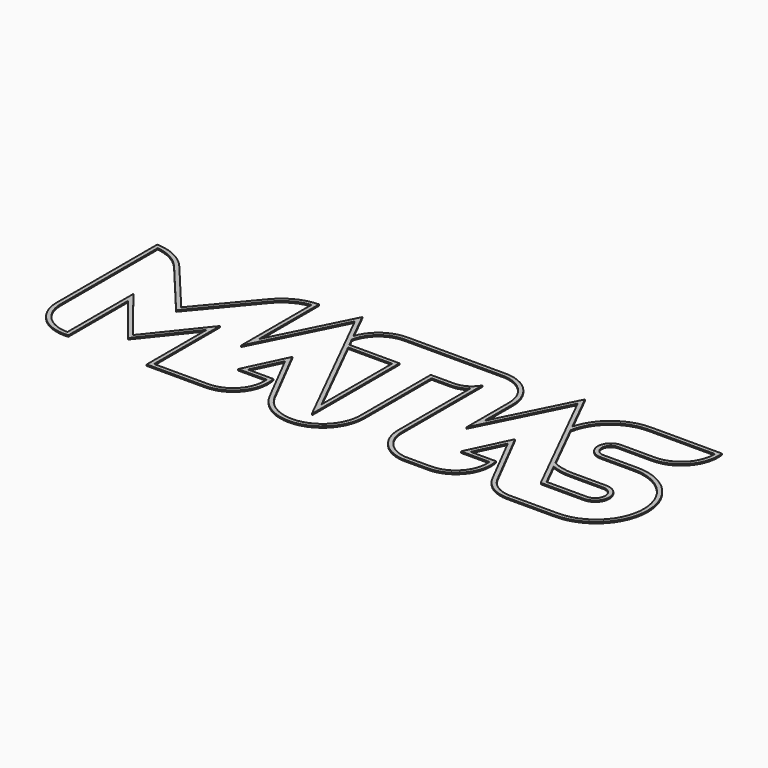
from build123d import *

# Parameters (mm, degrees)
F1_DEPTH = 0.4


with BuildPart() as f1:
    # F0 (on Top) → F1 (new body)
    with BuildSketch(Plane.XY):
        with BuildLine():
            Line((134.117601, 52.35192), (104.790399, 52.35192))
            ThreePointArc((104.790399, 52.35192), (98.599906, 50.364955), (94.722175, 45.146388))
            Line((94.722175, 45.146388), (90.439587, 53.731151))
            Line((90.439587, 53.731151), (78.773495, 30.448411))
            Line((78.773495, 30.448411), (78.773495, 52.493423))
            ThreePointArc((78.773495, 52.493423), (72.923348, 51.04402), (68.176621, 47.33005))
            Line((68.176621, 47.33005), (55.041848, 31.619177))
            Line((55.041848, 31.619177), (41.907075, 47.33005))
            ThreePointArc((41.907075, 47.33005), (37.160347, 51.04402), (31.3102, 52.493423))
            Line((31.3102, 52.493423), (31.3102, 15.584978))
            ThreePointArc((31.3102, 15.584978), (34.975357, 7.386031), (43.52908, 4.649262))
            Line((43.52908, 4.649262), (43.52908, 26.505338))
            Line((43.52908, 26.505338), (55.041848, 12.091459))
            Line((55.041848, 12.091459), (66.554615, 26.505338))
            Line((66.554615, 26.505338), (66.554615, 4.581898))
            Line((66.554615, 4.581898), (83.704581, 4.581914))
            ThreePointArc((83.704581, 4.581914), (91.70244, 8.42165), (93.707784, 17.063867))
            Line((93.707784, 17.063867), (86.238848, 17.063867))
            Line((86.238848, 17.063867), (90.309106, 25.609449))
            Line((90.309106, 25.609449), (98.430799, 9.756892))
            ThreePointArc((98.430799, 9.756892), (112.588106, 3.440158), (121.785738, 15.919502))
            Line((121.785738, 15.919502), (121.785738, 39.959846))
            Line((121.785738, 39.959846), (127.466301, 39.959846))
            ThreePointArc((127.466301, 39.959846), (129.789281, 40.322243), (131.891491, 41.374992))
            Line((131.891491, 41.374992), (131.891491, 15.021686))
            ThreePointArc((131.891491, 15.021686), (134.662869, 7.916194), (141.513281, 4.563521))
            Line((141.513281, 4.563521), (149.037555, 4.563528))
            ThreePointArc((149.037555, 4.563528), (157.035414, 8.403264), (159.040758, 17.045482))
            Line((159.040758, 17.045482), (151.571822, 17.045482))
            Line((151.571822, 17.045482), (155.64208, 25.591063))
            Line((155.64208, 25.591063), (163.763773, 9.738506))
            ThreePointArc((163.763773, 9.738506), (167.159763, 6.0203), (171.974498, 4.545128))
            Line((171.974498, 4.545128), (178.360625, 4.545128))
            Line((178.360625, 4.545128), (186.306138, 4.545128))
            ThreePointArc((186.306138, 4.545128), (201.425191, 19.664181), (186.306138, 34.783235))
            Line((186.306138, 34.783235), (176.385451, 34.783235))
            ThreePointArc((176.385451, 34.783235), (173.751636, 37.41705), (176.385451, 40.050866))
            Line((176.385451, 40.050866), (186.306138, 40.050866))
            ThreePointArc((186.306138, 40.050866), (194.459994, 43.760102), (197.021679, 52.3439))
            Line((197.021679, 52.3439), (176.385451, 52.3439))
            ThreePointArc((176.385451, 52.3439), (167.316213, 49.307242), (161.90404, 41.421765))
            Line((161.90404, 41.421765), (155.772561, 53.712765))
            Line((155.772561, 53.712765), (144.402741, 31.021313))
            Line((144.402741, 31.021313), (144.402741, 41.55154))
            ThreePointArc((144.402741, 41.55154), (141.420105, 49.008622), (134.117601, 52.35192))
        make_face()
        Polygon((110.209341, 39.95985), (110.209341, 14.101218), (97.309523, 39.95985), align=None, mode=Mode.SUBTRACT)
        with BuildLine():
            Line((32.510204, 15.584978), (32.510204, 51.195543))
            ThreePointArc((32.510204, 51.195543), (37.18689, 49.67996), (40.986429, 46.560362))
            Line((40.986429, 46.560362), (55.041848, 29.748278))
            Line((55.041848, 29.748278), (69.097267, 46.560362))
            ThreePointArc((69.097267, 46.560362), (72.896805, 49.67996), (77.573491, 51.195543))
            Line((77.573491, 51.195543), (77.573491, 25.374748))
            Line((77.573491, 25.374748), (90.437222, 51.04769))
            Line((90.437222, 51.04769), (95.369863, 41.15985))
            Line((95.369863, 41.15985), (111.409341, 9.007538))
            Line((111.409341, 9.007538), (111.409341, 41.15985))
            Line((111.409341, 41.15985), (96.710893, 41.15985))
            Line((96.710893, 41.15985), (95.529365, 43.528313))
            ThreePointArc((95.529365, 43.528313), (98.792773, 49.000858), (104.790399, 51.151916))
            Line((104.790399, 51.151916), (134.087416, 51.151916))
            ThreePointArc((134.087416, 51.151916), (140.560905, 48.17076), (143.202737, 41.55154))
            Line((143.202737, 41.55154), (143.202737, 25.947649))
            Line((143.202737, 25.947649), (155.770196, 51.029305))
            Line((155.770196, 51.029305), (162.525616, 37.48757))
            Line((162.525616, 37.48757), (168.213113, 26.086565))
            Line((168.213113, 26.086565), (173.694601, 15.098518))
            Line((173.694601, 15.098518), (186.306138, 15.098518))
            ThreePointArc((186.306138, 15.098518), (190.467475, 19.259855), (186.306138, 23.421193))
            Line((186.306138, 23.421193), (176.385451, 23.421193))
            ThreePointArc((176.385451, 23.421193), (173.177011, 23.797627), (170.142836, 24.906486))
            Line((170.142836, 24.906486), (162.743499, 39.739006))
            ThreePointArc((162.743499, 39.739006), (167.494805, 47.917086), (176.385451, 51.143896))
            Line((176.385451, 51.143896), (195.918921, 51.143896))
            ThreePointArc((195.918921, 51.143896), (193.203195, 44.16594), (186.306138, 41.25087))
            Line((186.306138, 41.25087), (176.385451, 41.25087))
            ThreePointArc((176.385451, 41.25087), (172.551632, 37.41705), (176.385451, 33.583231))
            Line((176.385451, 33.583231), (186.306138, 33.583231))
            ThreePointArc((186.306138, 33.583231), (200.225188, 19.664181), (186.306138, 5.745132))
            Line((186.306138, 5.745132), (178.360625, 5.745132))
            Line((178.360625, 5.745132), (171.993494, 5.745132))
            ThreePointArc((171.993494, 5.745132), (167.793729, 7.039214), (164.831771, 10.28567))
            Line((164.831771, 10.28567), (155.602871, 28.29936))
            Line((155.602871, 28.29936), (149.671091, 15.845478))
            Line((149.671091, 15.845478), (158.027767, 15.845478))
            ThreePointArc((158.027767, 15.845478), (155.791616, 8.790163), (149.037554, 5.763532))
            Line((149.037554, 5.763532), (141.564783, 5.763525))
            ThreePointArc((141.564783, 5.763525), (135.529592, 8.746533), (133.091494, 15.021686))
            Line((133.091494, 15.021686), (133.091494, 44.478871))
            ThreePointArc((133.091494, 44.478871), (130.731983, 42.051456), (127.466301, 41.15985))
            Line((127.466301, 41.15985), (120.585735, 41.15985))
            Line((120.585735, 41.15985), (120.585735, 15.893338))
            ThreePointArc((120.585735, 15.893338), (112.293961, 4.603626), (99.498797, 10.304056))
            Line((99.498797, 10.304056), (90.269897, 28.317746))
            Line((90.269897, 28.317746), (84.338117, 15.863864))
            Line((84.338117, 15.863864), (92.694793, 15.863864))
            ThreePointArc((92.694793, 15.863864), (90.458642, 8.808548), (83.70458, 5.781918))
            Line((83.70458, 5.781918), (67.786207, 5.781903))
            ThreePointArc((67.786207, 5.781903), (67.771236, 5.78189), (67.756265, 5.7819))
            ThreePointArc((67.756265, 5.7819), (67.755442, 5.781902), (67.754619, 5.781903))
            Line((67.754619, 5.781903), (67.754619, 29.930541))
            Line((67.754619, 29.930541), (55.041848, 14.014268))
            Line((55.041848, 14.014268), (42.329077, 29.930541))
            Line((42.329077, 29.930541), (42.329077, 5.781903))
            ThreePointArc((42.329077, 5.781903), (35.387045, 8.647569), (32.510204, 15.584978))
        make_face(mode=Mode.SUBTRACT)
        with BuildLine():
            Line((174.437, 16.298518), (170.982292, 23.223732))
            ThreePointArc((170.982292, 23.223732), (173.637761, 22.473948), (176.385451, 22.221193))
            Line((176.385451, 22.221193), (186.306138, 22.221193))
            ThreePointArc((186.306138, 22.221193), (189.267475, 19.259855), (186.306138, 16.298518))
            Line((186.306138, 16.298518), (174.437, 16.298518))
        make_face(mode=Mode.SUBTRACT)
    extrude(amount=F1_DEPTH)


solid = f1.part
